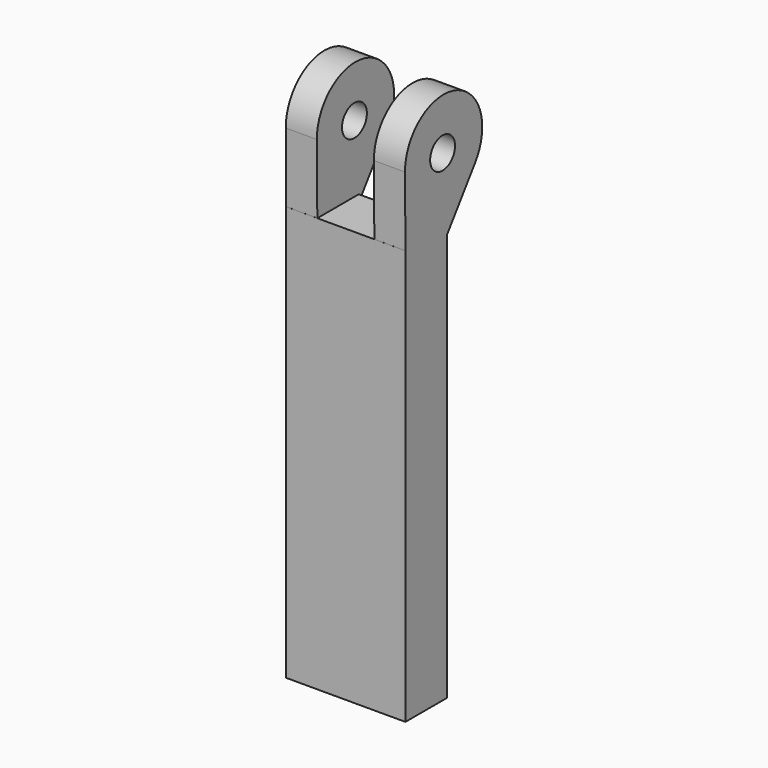
from build123d import *

# Parameters (mm, degrees)
SKETCH014_R      = 3
EXTRUDE013_DEPTH = 6
BOX025_W         = 23
BOX025_H         = 10
BOX025_DEPTH     = 80


with BuildPart() as union_brazo_central:
    # Sketch014 → Extrude013 (new body)
    with BuildSketch(Plane(origin=(0, 0, 0), x_dir=(0, -1, 0), z_dir=(-1, 0, 0))):
        with BuildLine():
            ThreePointArc((-10.900695, 145.407872), (-23.024313, 154.355924), (-27.779278, 140.057671))
            Line((-27.779278, 140.057671), (-20.026942, 129.238365))
            Line((-20.026942, 129.238365), (-11.026942, 129.238365))
            Line((-10.900695, 145.407872), (-11.026942, 129.238365))
        make_face()
        with Locations((-19.957954, 144.958669)):
            Circle(SKETCH014_R, mode=Mode.SUBTRACT)
    extrude(amount=EXTRUDE013_DEPTH)


with BuildPart() as union_brazo_central_1:
    # Extrude013 placement: moved
    add(union_brazo_central.part.moved(Location((63, 0, 0))))


with BuildPart() as main_brazo_central:
    # Box025 → Box025 (new body)
    with BuildSketch(Plane(origin=(57, 11, 52), x_dir=(1, 0, 0), z_dir=(0, 0, 1))):
        with Locations((11.5, 5)):
            Rectangle(BOX025_W, BOX025_H)
    extrude(amount=BOX025_DEPTH)


with BuildPart() as brazo_central:
    # Link017 base: copy of Union brazo central
    add(union_brazo_central_1.part)


with BuildPart() as brazo_central_1:
    # Link017 placement: moved
    add(brazo_central.part.moved(Location((17, 0, 0))))

    # Fusion021: union Union brazo central, main brazo central
    add(union_brazo_central_1.part)
    add(main_brazo_central.part)


solid = brazo_central_1.part
